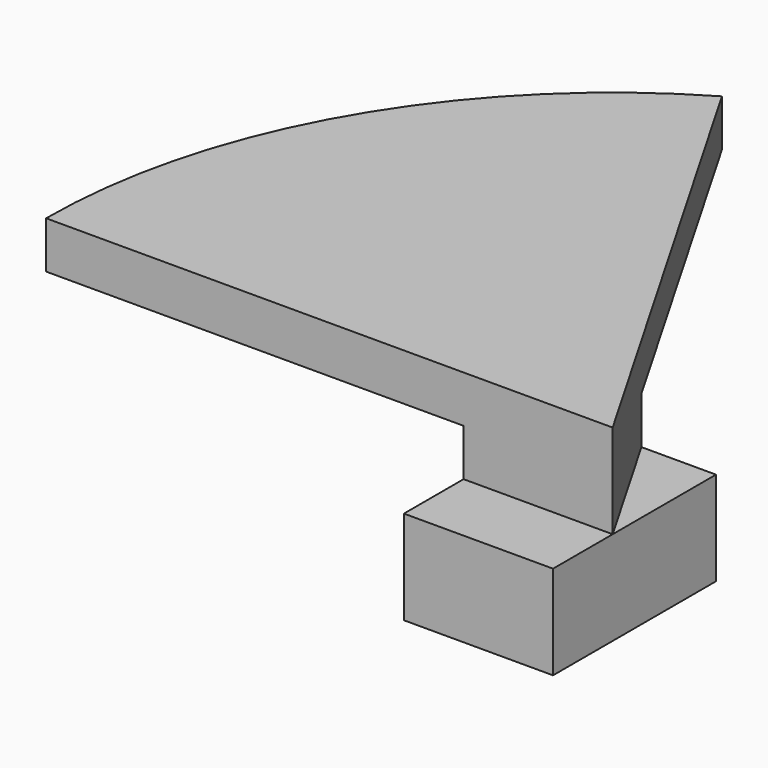
from build123d import *

# Parameters (mm, degrees)
F1_ANGLE = 60
F2_W     = 6.35
F2_H     = 3.175
F3_DEPTH = 4


with BuildPart() as f1:
    # F0 (on Front) → F1 (revolve)
    with BuildSketch(Plane.XZ):
        Polygon((0, 6), (0, 0), (6.35, 0), (6.35, 8), (-17.78, 8), (-17.78, 6), align=None)
    revolve(axis=Axis((6.35, 0, 4), (0, 0, -1)), revolution_arc=F1_ANGLE)

    # F2 (on face) → F3 (join)
    with BuildSketch(Plane(origin=(0, 0, 0), x_dir=(1, 0, 0), z_dir=(0, 0, -1))):
        with Locations((3.175, 1.5875)):
            Rectangle(F2_W, F2_H)
        Polygon((6.35, 0), (3.175, -5.499261314), (6.35, -5.499261314), align=None)
    extrude(amount=-F3_DEPTH)


solid = f1.part
